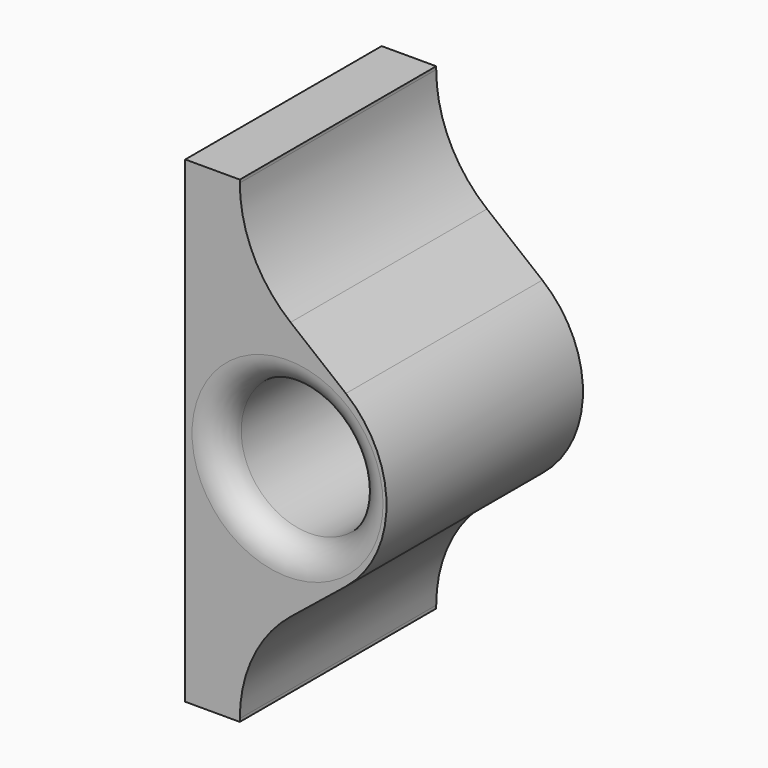
from build123d import *

# Parameters (mm, degrees)
SKETCH_R    = 5
PAD_DEPTH   = 18
FILLET_R    = 8
FILLET001_R = 10
FILLET002_R = 2


with BuildPart() as part:
    # Sketch → Pad (new body)
    with BuildSketch(Plane.XZ):
        Polygon((4, 17.5), (0, 17.5), (0, -17.5), (4, -17.5), (4, -12.5), (19.5, 0), (4, 12.5), align=None)
        with Locations((7.5, 0)):
            Circle(SKETCH_R, mode=Mode.SUBTRACT)
    extrude(amount=PAD_DEPTH)

    # Fillet
    fillet_edges = [part.edges().sort_by_distance(p)[0] for p in [
        (19.5, -9, 0),
    ]]
    fillet(fillet_edges, radius=FILLET_R)

    # Fillet001
    fillet001_edges = [part.edges().sort_by_distance(p)[0] for p in [
        (4, -9, -12.5),
        (4, -9, 12.5),
    ]]
    fillet(fillet001_edges, radius=FILLET001_R)

    # Fillet002
    fillet002_edges = [part.edges().sort_by_distance(p)[0] for p in [
        (2.5, -18, 0),
        (2.5, 0, 0),
    ]]
    fillet(fillet002_edges, radius=FILLET002_R)


solid = part.part
